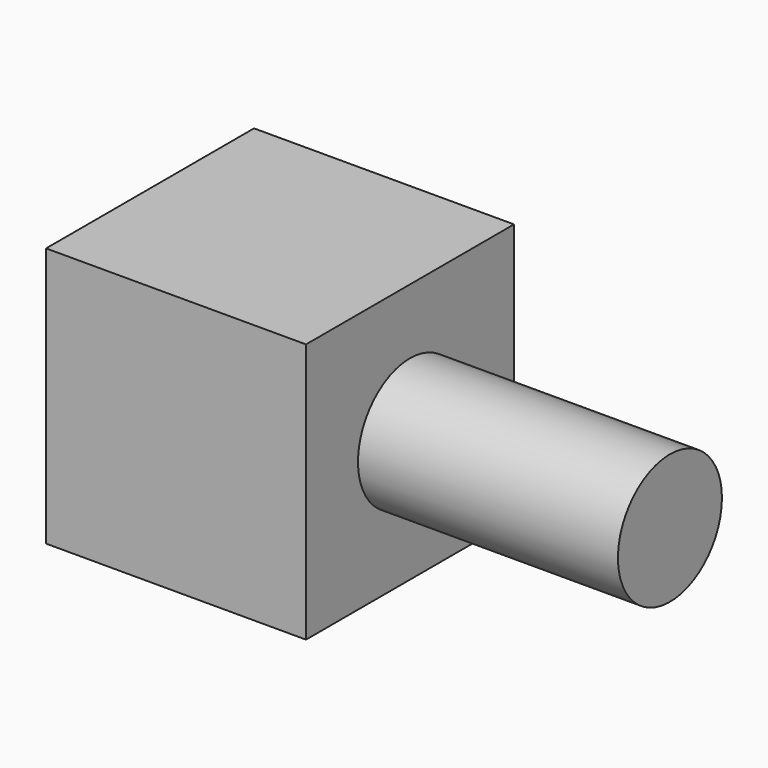
from build123d import *

# Parameters (mm, degrees)
F0_W     = 25.4
F0_H     = 25.4
F1_DEPTH = 25.4
F2_R     = 6.35
F3_DEPTH = 25.4


with BuildPart() as f1:
    # F0 (on Top) → F1 (new body)
    with BuildSketch(Plane.XY):
        Rectangle(F0_W, F0_H)
    extrude(amount=F1_DEPTH)

    # F2 (on face) → F3 (join)
    with BuildSketch(Plane.YZ.offset(12.7)):
        with Locations((0, 12.7)):
            Circle(F2_R)
    extrude(amount=F3_DEPTH)


solid = f1.part
